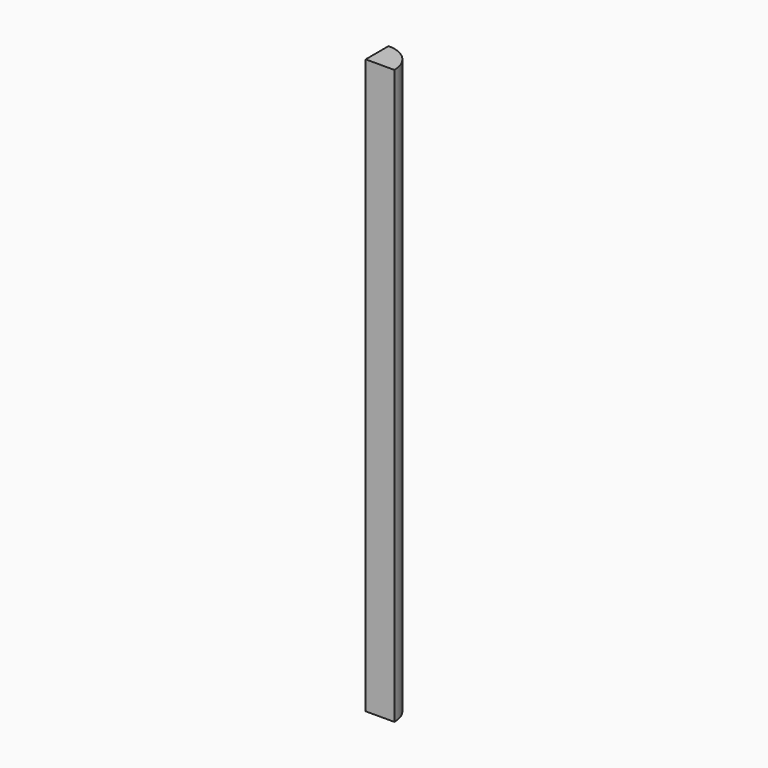
from build123d import *

# Parameters (mm, degrees)
PAD001_DEPTH = 600


with BuildPart() as part:
    # Sketch001 → Pad001 (new body)
    with BuildSketch(Plane.XY):
        with BuildLine():
            ThreePointArc((30, 0), (21.213203, 21.213203), (0, 30))
            Line((0, 30), (0, 0))
            Line((0, 0), (30, 0))
        make_face()
    extrude(amount=PAD001_DEPTH)


solid = part.part
